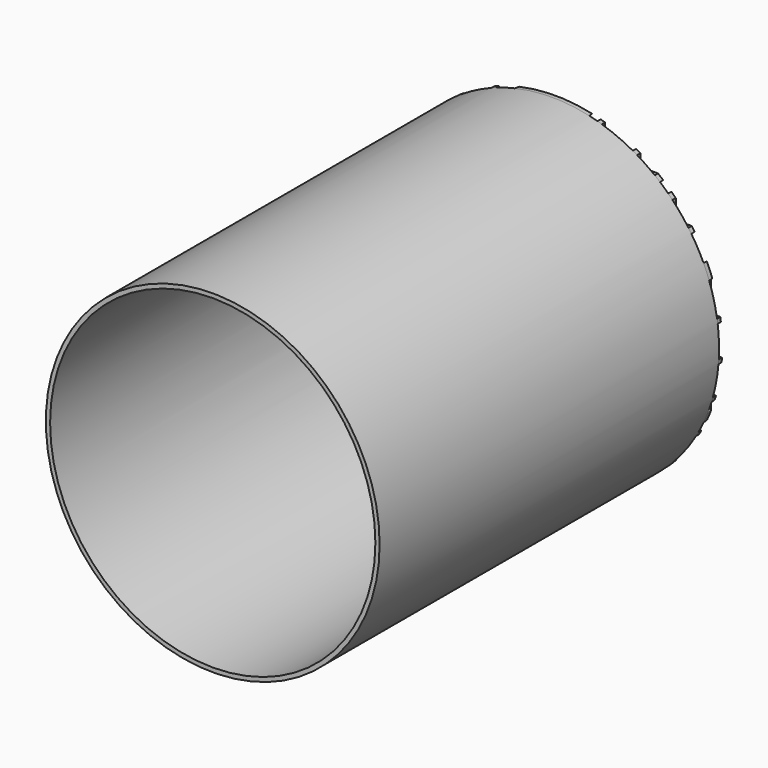
from build123d import *

# Parameters (mm, degrees)
F0_R     = 118
F0_R_2   = 115
F1_DEPTH = 300
F2_W     = 3
F2_H     = 236
F3_DEPTH = 3
F4_W     = 236
F4_H     = 3
F5_DEPTH = 3
F6_R     = 233.5195566166
F6_R_2   = 118
F7_DEPTH = 25
F7_TAPER = -3


with BuildPart() as f1:
    # F0 (on Front) → F1 (new body)
    with BuildSketch(Plane.XZ):
        Circle(F0_R)
        Circle(F0_R_2, mode=Mode.SUBTRACT)
    extrude(amount=F1_DEPTH)

    # F2 (on Front) → F3 (join)
    with BuildSketch(Plane.XZ):
        with Locations((-116.5, 0)):
            Rectangle(F2_W, F2_H)
        with Locations((-91.5, 0)):
            Rectangle(F2_W, F2_H)
        with Locations((-66.5, 0)):
            Rectangle(F2_W, F2_H)
        with Locations((-41.5, 0)):
            Rectangle(F2_W, F2_H)
        with Locations((-16.5, 0)):
            Rectangle(F2_W, F2_H)
        with Locations((8.5, 0)):
            Rectangle(F2_W, F2_H)
        with Locations((33.5, 0)):
            Rectangle(F2_W, F2_H)
        with Locations((58.5, 0)):
            Rectangle(F2_W, F2_H)
        with Locations((83.5, 0)):
            Rectangle(F2_W, F2_H)
        with Locations((108.5, 0)):
            Rectangle(F2_W, F2_H)
    extrude(amount=-F3_DEPTH)

    # F4 (on Front) → F5 (join)
    with BuildSketch(Plane.XZ):
        with Locations((0, 116.5)):
            Rectangle(F4_W, F4_H)
        with Locations((0, 91.5)):
            Rectangle(F4_W, F4_H)
        with Locations((0, 66.5)):
            Rectangle(F4_W, F4_H)
        with Locations((0, 41.5)):
            Rectangle(F4_W, F4_H)
        with Locations((0, 16.5)):
            Rectangle(F4_W, F4_H)
        with Locations((0, -8.5)):
            Rectangle(F4_W, F4_H)
        with Locations((0, -33.5)):
            Rectangle(F4_W, F4_H)
        with Locations((0, -58.5)):
            Rectangle(F4_W, F4_H)
        with Locations((0, -83.5)):
            Rectangle(F4_W, F4_H)
        with Locations((0, -108.5)):
            Rectangle(F4_W, F4_H)
    extrude(amount=-F5_DEPTH)


with BuildPart() as f3:
    # F2 (on Front) → F3, piece 2 (new body)
    with BuildSketch(Plane.XZ):
        with Locations((133.5, 0)):
            Rectangle(F2_W, F2_H)
    extrude(amount=-F3_DEPTH)


with BuildPart() as f3b:
    # F2 (on Front) → F3, piece 3 (new body)
    with BuildSketch(Plane.XZ):
        with Locations((158.5, 0)):
            Rectangle(F2_W, F2_H)
    extrude(amount=-F3_DEPTH)


with BuildPart() as f3c:
    # F2 (on Front) → F3, piece 4 (new body)
    with BuildSketch(Plane.XZ):
        with Locations((183.5, 0)):
            Rectangle(F2_W, F2_H)
    extrude(amount=-F3_DEPTH)


with BuildPart() as f5:
    # F4 (on Front) → F5, piece 2 (new body)
    with BuildSketch(Plane.XZ):
        with Locations((0, -133.5)):
            Rectangle(F4_W, F4_H)
    extrude(amount=-F5_DEPTH)


with BuildPart() as f5b:
    # F4 (on Front) → F5, piece 3 (new body)
    with BuildSketch(Plane.XZ):
        with Locations((0, -158.5)):
            Rectangle(F4_W, F4_H)
    extrude(amount=-F5_DEPTH)


with BuildPart() as f5c:
    # F4 (on Front) → F5, piece 4 (new body)
    with BuildSketch(Plane.XZ):
        with Locations((0, -183.5)):
            Rectangle(F4_W, F4_H)
    extrude(amount=-F5_DEPTH)


with BuildPart() as f7_tool:
    # F6 (on Front) → F7 (new body)
    with BuildSketch(Plane.XZ):
        Circle(F6_R)
        Circle(F6_R_2, mode=Mode.SUBTRACT)
    extrude(amount=-F7_DEPTH, taper=F7_TAPER)


with BuildPart() as f1_1:
    add(f1.part)

    # F7: cut by f7_tool
    add(f7_tool.part, mode=Mode.SUBTRACT)


with BuildPart() as f3_1:
    add(f3.part)

    # F7: cut by f7_tool
    add(f7_tool.part, mode=Mode.SUBTRACT)


with BuildPart() as f3b_1:
    add(f3b.part)

    # F7: cut by f7_tool
    add(f7_tool.part, mode=Mode.SUBTRACT)


with BuildPart() as f3c_1:
    add(f3c.part)

    # F7: cut by f7_tool
    add(f7_tool.part, mode=Mode.SUBTRACT)


with BuildPart() as f5_1:
    add(f5.part)

    # F7: cut by f7_tool
    add(f7_tool.part, mode=Mode.SUBTRACT)


with BuildPart() as f5b_1:
    add(f5b.part)

    # F7: cut by f7_tool
    add(f7_tool.part, mode=Mode.SUBTRACT)


with BuildPart() as f5c_1:
    add(f5c.part)

    # F7: cut by f7_tool
    add(f7_tool.part, mode=Mode.SUBTRACT)


solid = f1_1.part
